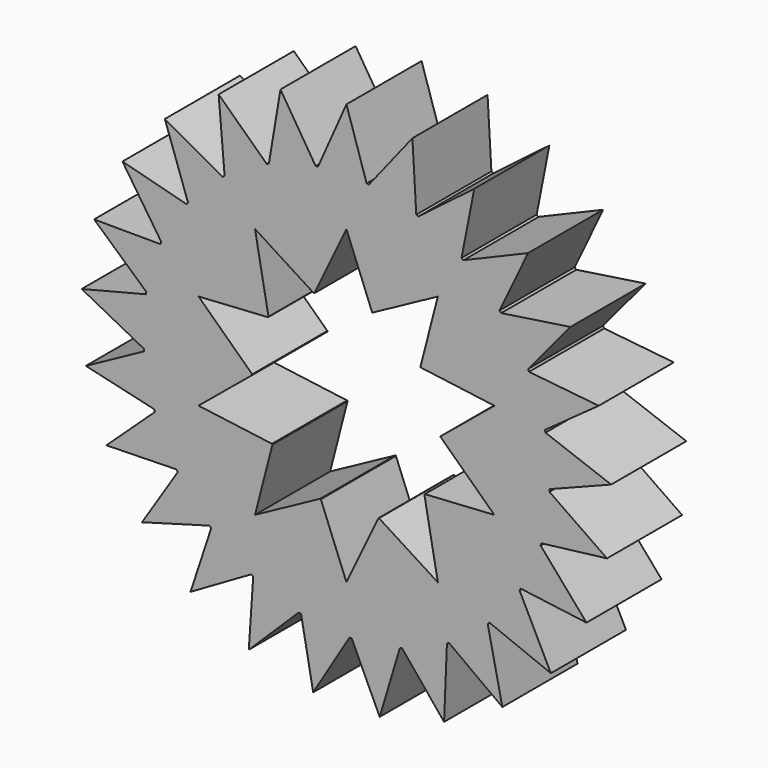
from build123d import *

# Parameters (mm, degrees)
F1_DEPTH = 25.4


with BuildPart() as f1:
    # F0 (on Front) → F1 (new body)
    with BuildSketch(Plane.XZ):
        with BuildLine():
            ThreePointArc((54.927443, -2.014457), (54.955138, -1.007398), (54.96437, 0))
            ThreePointArc((54.96437, 0), (54.681442, 5.569728), (53.835571, 11.082115))
            ThreePointArc((53.835571, 11.082115), (53.770084, 11.395616), (53.702771, 11.70873))
            ThreePointArc((53.702771, 11.70873), (51.917841, 18.044937), (49.388218, 24.122312))
            ThreePointArc((49.388218, 24.122312), (49.246823, 24.409678), (49.103757, 24.696215))
            ThreePointArc((49.103757, 24.696215), (45.799154, 30.389464), (41.837621, 35.646816))
            ThreePointArc((41.837621, 35.646816), (41.629204, 35.88999), (41.419373, 36.131946))
            ThreePointArc((41.419373, 36.131946), (36.802736, 40.82451), (31.658212, 44.931499))
            ThreePointArc((31.658212, 44.931499), (31.395868, 45.115202), (31.132458, 45.297374))
            ThreePointArc((31.132458, 45.297374), (25.493868, 48.694401), (19.489602, 51.39297))
            ThreePointArc((19.489602, 51.39297), (19.189815, 51.50566), (18.889376, 51.616601))
            ThreePointArc((18.889376, 51.616601), (12.583126, 53.504644), (6.096388, 54.625233))
            ThreePointArc((6.096388, 54.625233), (5.777995, 54.659828), (5.459405, 54.692567))
            ThreePointArc((5.459405, 54.692567), (-1.11826, 54.952994), (-7.679884, 54.425191))
            ThreePointArc((-7.679884, 54.425191), (-7.996878, 54.379518), (-8.313601, 54.331998))
            ThreePointArc((-8.313601, 54.331998), (-14.749381, 52.948444), (-20.973601, 50.805414))
            ThreePointArc((-20.973601, 50.805414), (-21.269278, 50.682342), (-21.564232, 50.55755))
            ThreePointArc((-21.564232, 50.55755), (-27.453745, 47.61695), (-32.949469, 43.993346))
            ThreePointArc((-32.949469, 43.993346), (-33.20525, 43.800609), (-33.459904, 43.606385))
            ThreePointArc((-33.459904, 43.606385), (-38.433089, 39.293507), (-42.855001, 34.417014))
            ThreePointArc((-42.855001, 34.417014), (-43.054815, 34.166723), (-43.253166, 33.915271))
            ThreePointArc((-43.253166, 33.915271), (-46.99754, 28.501109), (-50.067796, 22.678135))
            ThreePointArc((-50.067796, 22.678135), (-50.199087, 22.386015), (-50.328674, 22.093135))
            ThreePointArc((-50.328674, 22.093135), (-52.608964, 15.917881), (-54.134647, 9.514305))
            ThreePointArc((-54.134647, 9.514305), (-54.189166, 9.198712), (-54.241845, 8.882806))
            ThreePointArc((-54.241845, 8.882806), (-54.914772, 2.334474), (-54.800019, -4.247343))
            ThreePointArc((-54.800019, -4.247343), (-54.77434, -4.56658), (-54.746802, -4.885662))
            ThreePointArc((-54.746802, -4.885662), (-53.770084, -11.395616), (-52.022104, -17.742116))
            ThreePointArc((-52.022104, -17.742116), (-51.917841, -18.044937), (-51.811816, -18.347146))
            ThreePointArc((-51.811816, -18.347146), (-49.246823, -24.409678), (-45.975449, -30.122086))
            ThreePointArc((-45.975449, -30.122086), (-45.799154, -30.389464), (-45.621303, -30.655811))
            ThreePointArc((-45.621303, -30.655811), (-41.629204, -35.88999), (-37.039988, -40.609374))
            ThreePointArc((-37.039988, -40.609374), (-36.802736, -40.82451), (-36.564235, -41.038259))
            ThreePointArc((-36.564235, -41.038259), (-31.395868, -45.115202), (-25.777168, -48.545027))
            ThreePointArc((-25.777168, -48.545027), (-25.493868, -48.694401), (-25.209703, -48.842122))
            ThreePointArc((-25.209703, -48.842122), (-19.189815, -51.50566), (-12.894674, -53.430416))
            ThreePointArc((-12.894674, -53.430416), (-12.583126, -53.504644), (-12.271152, -53.577055))
            ThreePointArc((-12.271152, -53.577055), (-5.777995, -54.659828), (0.798041, -54.958577))
            ThreePointArc((0.798041, -54.958577), (1.11826, -54.952994), (1.438441, -54.945545))
            ThreePointArc((1.438441, -54.945545), (7.996878, -54.379518), (14.440611, -53.033487))
            ThreePointArc((14.440611, -53.033487), (14.749381, -52.948444), (15.057651, -52.861604))
            ThreePointArc((15.057651, -52.861604), (21.269278, -50.682342), (27.175824, -47.776109))
            ThreePointArc((27.175824, -47.776109), (27.453745, -47.61695), (27.730733, -47.456174))
            ThreePointArc((27.730733, -47.456174), (33.20525, -43.800609), (38.203481, -39.516782))
            ThreePointArc((38.203481, -39.516782), (38.433089, -39.293507), (38.661392, -39.068898))
            ThreePointArc((38.661392, -39.068898), (43.054815, -34.166723), (46.830672, -28.77447))
            ThreePointArc((46.830672, -28.77447), (46.99754, -28.501109), (47.162813, -28.226779))
            ThreePointArc((47.162813, -28.226779), (50.199087, -22.386015), (52.51532, -16.224152))
            ThreePointArc((52.51532, -16.224152), (52.608964, -15.917881), (52.700821, -15.611069))
            ThreePointArc((52.700821, -15.611069), (54.189166, -9.198712), (54.900238, -2.654412))
            ThreePointArc((54.900238, -2.654412), (54.914772, -2.334474), (54.927443, -2.014457))
        make_face()
        with BuildLine():
            ThreePointArc((25.469281, 0.998052), (25.472873, 0.901722), (25.476102, 0.80538))
            Line((25.476102, 0.80538), (40.003491, -12.997922))
            Line((40.003491, -12.997922), (21.191721, -14.163027))
            ThreePointArc((21.191721, -14.163027), (21.138007, -14.243071), (21.08399, -14.32291))
            Line((21.08399, -14.32291), (24.723517, -34.029002))
            Line((24.723517, -34.029002), (8.819644, -23.914311))
            ThreePointArc((8.819644, -23.914311), (8.72914, -23.947495), (8.638511, -23.980336))
            Line((8.638511, -23.980336), (0, -42.06216))
            Line((0, -42.06216), (-6.921237, -24.531141))
            ThreePointArc((-6.921237, -24.531141), (-7.013962, -24.50479), (-7.106586, -24.478089))
            Line((-7.106586, -24.478089), (-24.723517, -34.029002))
            Line((-24.723517, -34.029002), (-20.018441, -15.777909))
            ThreePointArc((-20.018441, -15.777909), (-20.077968, -15.702088), (-20.137208, -15.626043))
            Line((-20.137208, -15.626043), (-40.003491, -12.997922))
            Line((-40.003491, -12.997922), (-25.469281, -0.998052))
            ThreePointArc((-25.469281, -0.998052), (-25.472873, -0.901722), (-25.476102, -0.80538))
            Line((-25.476102, -0.80538), (-40.003491, 12.997922))
            Line((-40.003491, 12.997922), (-21.191721, 14.163027))
            ThreePointArc((-21.191721, 14.163027), (-21.138007, 14.243071), (-21.08399, 14.32291))
            Line((-21.08399, 14.32291), (-24.723517, 34.029002))
            Line((-24.723517, 34.029002), (-8.819644, 23.914311))
            ThreePointArc((-8.819644, 23.914311), (-8.72914, 23.947495), (-8.638511, 23.980336))
            Line((-8.638511, 23.980336), (0, 42.06216))
            Line((0, 42.06216), (6.921237, 24.531141))
            ThreePointArc((6.921237, 24.531141), (7.013962, 24.50479), (7.106586, 24.478089))
            Line((7.106586, 24.478089), (24.723517, 34.029002))
            Line((24.723517, 34.029002), (20.018441, 15.777909))
            ThreePointArc((20.018441, 15.777909), (20.077968, 15.702088), (20.137208, 15.626043))
            Line((20.137208, 15.626043), (40.003491, 12.997922))
            Line((40.003491, 12.997922), (25.469281, 0.998052))
        make_face(mode=Mode.SUBTRACT)
        with BuildLine():
            ThreePointArc((-42.855001, 34.417014), (-38.433089, 39.293507), (-33.459904, 43.606385))
            Line((-33.459904, 43.606385), (-49.114439, 52.301566))
            Line((-49.114439, 52.301566), (-42.855001, 34.417014))
        make_face()
        with BuildLine():
            ThreePointArc((-50.067796, 22.678135), (-46.99754, 28.501109), (-43.253166, 33.915271))
            Line((-43.253166, 33.915271), (-60.578289, 38.444151))
            Line((-60.578289, 38.444151), (-50.067796, 22.678135))
        make_face()
        with BuildLine():
            ThreePointArc((-54.134647, 9.514305), (-52.608964, 15.917881), (-50.328674, 22.093135))
            Line((-50.328674, 22.093135), (-68.235783, 22.17115))
            Line((-68.235783, 22.17115), (-54.134647, 9.514305))
        make_face()
        with BuildLine():
            ThreePointArc((-54.800019, -4.247343), (-54.914772, 2.334474), (-54.241845, 8.882806))
            Line((-54.241845, 8.882806), (-71.605771, 4.505053))
            Line((-71.605771, 4.505053), (-54.800019, -4.247343))
        make_face()
        with BuildLine():
            Line((-55.282282, -45.733481), (-37.039988, -40.609374))
            ThreePointArc((-37.039988, -40.609374), (-41.629204, -35.88999), (-45.621303, -30.655811))
            Line((-45.621303, -30.655811), (-55.282282, -45.733481))
        make_face()
        with BuildLine():
            Line((-42.172033, -58.044824), (-25.777168, -48.545027))
            ThreePointArc((-25.777168, -48.545027), (-31.395868, -45.115202), (-36.564235, -41.038259))
            Line((-36.564235, -41.038259), (-42.172033, -58.044824))
        make_face()
        with BuildLine():
            Line((-26.41196, -66.708997), (-12.894674, -53.430416))
            ThreePointArc((-12.894674, -53.430416), (-19.189815, -51.50566), (-25.209703, -48.842122))
            Line((-25.209703, -48.842122), (-26.41196, -66.708997))
        make_face()
        with BuildLine():
            Line((-8.992327, -71.181598), (0.798041, -54.958577))
            ThreePointArc((0.798041, -54.958577), (-5.777995, -54.659828), (-12.271152, -53.577055))
            Line((-12.271152, -53.577055), (-8.992327, -71.181598))
        make_face()
        with BuildLine():
            Line((8.992327, -71.181598), (14.440611, -53.033487))
            ThreePointArc((14.440611, -53.033487), (7.996878, -54.379518), (1.438441, -54.945545))
            Line((1.438441, -54.945545), (8.992327, -71.181598))
        make_face()
        with BuildLine():
            Line((26.41196, -66.708997), (27.175824, -47.776109))
            ThreePointArc((27.175824, -47.776109), (21.269278, -50.682342), (15.057651, -52.861604))
            Line((15.057651, -52.861604), (26.41196, -66.708997))
        make_face()
        with BuildLine():
            Line((42.172033, -58.044824), (38.203481, -39.516782))
            ThreePointArc((38.203481, -39.516782), (33.20525, -43.800609), (27.730733, -47.456174))
            Line((27.730733, -47.456174), (42.172033, -58.044824))
        make_face()
        with BuildLine():
            Line((55.282282, -45.733481), (46.830672, -28.77447))
            ThreePointArc((46.830672, -28.77447), (43.054815, -34.166723), (38.661392, -39.068898))
            Line((38.661392, -39.068898), (55.282282, -45.733481))
        make_face()
        with BuildLine():
            Line((64.918941, -30.548535), (52.51532, -16.224152))
            ThreePointArc((52.51532, -16.224152), (50.199087, -22.386015), (47.162813, -28.226779))
            Line((47.162813, -28.226779), (64.918941, -30.548535))
        make_face()
        with BuildLine():
            Line((70.476505, -13.444112), (54.900238, -2.654412))
            ThreePointArc((54.900238, -2.654412), (54.189166, -9.198712), (52.700821, -15.611069))
            Line((52.700821, -15.611069), (70.476505, -13.444112))
        make_face()
        with BuildLine():
            ThreePointArc((53.835571, 11.082115), (54.681442, 5.569728), (54.96437, 0))
            ThreePointArc((54.96437, 0), (54.955138, -1.007398), (54.927443, -2.014457))
            Line((54.927443, -2.014457), (71.605771, 4.505053))
            Line((71.605771, 4.505053), (53.835571, 11.082115))
        make_face()
        with BuildLine():
            ThreePointArc((49.388218, 24.122312), (51.917841, 18.044937), (53.702771, 11.70873))
            Line((53.702771, 11.70873), (68.235783, 22.17115))
            Line((68.235783, 22.17115), (49.388218, 24.122312))
        make_face()
        with BuildLine():
            ThreePointArc((41.837621, 35.646816), (45.799154, 30.389464), (49.103757, 24.696215))
            Line((49.103757, 24.696215), (60.578289, 38.444151))
            Line((60.578289, 38.444151), (41.837621, 35.646816))
        make_face()
        with BuildLine():
            ThreePointArc((31.658212, 44.931499), (36.802736, 40.82451), (41.419373, 36.131946))
            Line((41.419373, 36.131946), (49.114439, 52.301566))
            Line((49.114439, 52.301566), (31.658212, 44.931499))
        make_face()
        with BuildLine():
            ThreePointArc((19.489602, 51.39297), (25.493868, 48.694401), (31.132458, 45.297374))
            Line((31.132458, 45.297374), (34.564548, 62.87268))
            Line((34.564548, 62.87268), (19.489602, 51.39297))
        make_face()
        with BuildLine():
            ThreePointArc((6.096388, 54.625233), (12.583126, 53.504644), (18.889376, 51.616601))
            Line((18.889376, 51.616601), (17.84284, 69.493273))
            Line((17.84284, 69.493273), (6.096388, 54.625233))
        make_face()
        with BuildLine():
            ThreePointArc((-7.679884, 54.425191), (-1.11826, 54.952994), (5.459405, 54.692567))
            Line((5.459405, 54.692567), (0, 71.747348))
            Line((0, 71.747348), (-7.679884, 54.425191))
        make_face()
        with BuildLine():
            ThreePointArc((-20.973601, 50.805414), (-14.749381, 52.948444), (-8.313601, 54.331998))
            Line((-8.313601, 54.331998), (-17.84284, 69.493273))
            Line((-17.84284, 69.493273), (-20.973601, 50.805414))
        make_face()
        with BuildLine():
            Line((-70.476505, -13.444112), (-52.022104, -17.742116))
            ThreePointArc((-52.022104, -17.742116), (-53.770084, -11.395616), (-54.746802, -4.885662))
            Line((-54.746802, -4.885662), (-70.476505, -13.444112))
        make_face()
        with BuildLine():
            Line((-64.918941, -30.548535), (-45.975449, -30.122086))
            ThreePointArc((-45.975449, -30.122086), (-49.246823, -24.409678), (-51.811816, -18.347146))
            Line((-51.811816, -18.347146), (-64.918941, -30.548535))
        make_face()
        with BuildLine():
            ThreePointArc((-32.949469, 43.993346), (-27.453745, 47.61695), (-21.564232, 50.55755))
            Line((-21.564232, 50.55755), (-34.564548, 62.87268))
            Line((-34.564548, 62.87268), (-32.949469, 43.993346))
        make_face()
    extrude(amount=F1_DEPTH)


solid = f1.part
